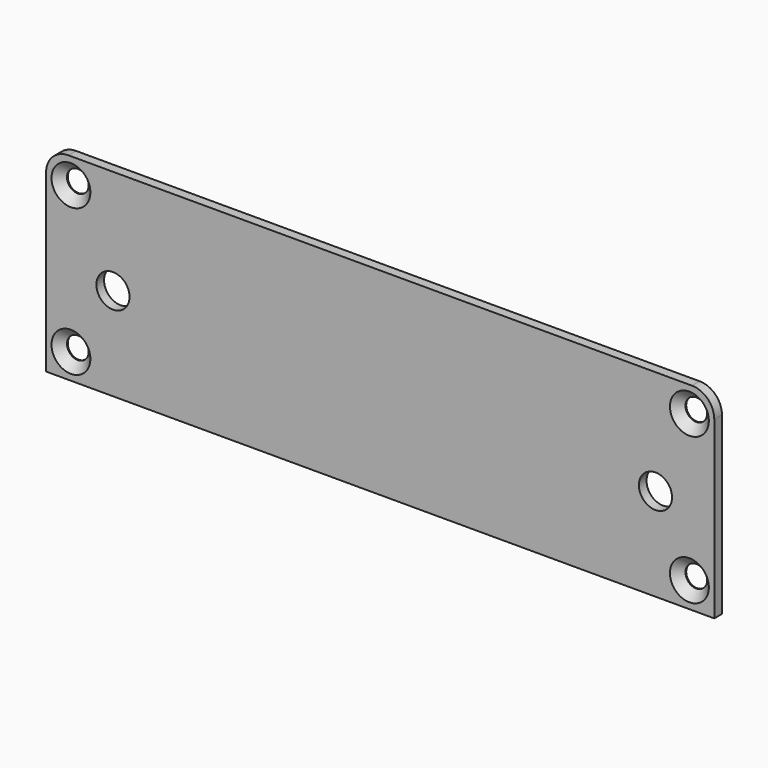
from build123d import *

# Parameters (mm, degrees)
SKETCH_W            = 104.8
SKETCH_H            = 31
PAD_DEPTH           = 1.5
HOLE_D              = 3.4
HOLE_DEPTH          = 25
HOLE_CSINK_D        = 6.1
HOLE_CSINK_ANGLE    = 90
FILLET_R            = 3.5
SKETCH002_R         = 2.6
POCKET_DEPTH        = 1.501
LINEARPATTERN_COUNT = 2
LINEARPATTERN_PITCH = 85.09


with BuildPart() as part:
    # Sketch → Pad (new body)
    with BuildSketch(Plane.XZ):
        Rectangle(SKETCH_W, SKETCH_H)
    extrude(amount=PAD_DEPTH)

    # Hole
    with Locations(Plane.XZ.offset(1.5)):
        with Locations((-48.5, 11.5), (-48.5, -11.5), (48.5, -11.5), (48.5, 11.5)):
            CounterSinkHole(HOLE_D / 2, HOLE_CSINK_D / 2, depth=HOLE_DEPTH, counter_sink_angle=HOLE_CSINK_ANGLE)

    # Fillet
    fillet_edges = [part.edges().sort_by_distance(p)[0] for p in [
        (-52.4, -0.75, 15.5),
        (52.4, -0.75, 15.5),
    ]]
    fillet(fillet_edges, radius=FILLET_R)

    # Sketch002 (on Face5 of Fillet) → Pocket (cut, through all)
    with BuildSketch(Plane.XZ.offset(1.5)):
        with Locations((-41.91, -0.94)):
            Circle(SKETCH002_R)
    pocket = extrude(amount=-POCKET_DEPTH, mode=Mode.SUBTRACT)

    # LinearPattern: Pocket ×2
    with Locations(*[(i * LINEARPATTERN_PITCH, 0, 0) for i in range(1, LINEARPATTERN_COUNT)]):
        add(pocket, mode=Mode.SUBTRACT)


solid = part.part
